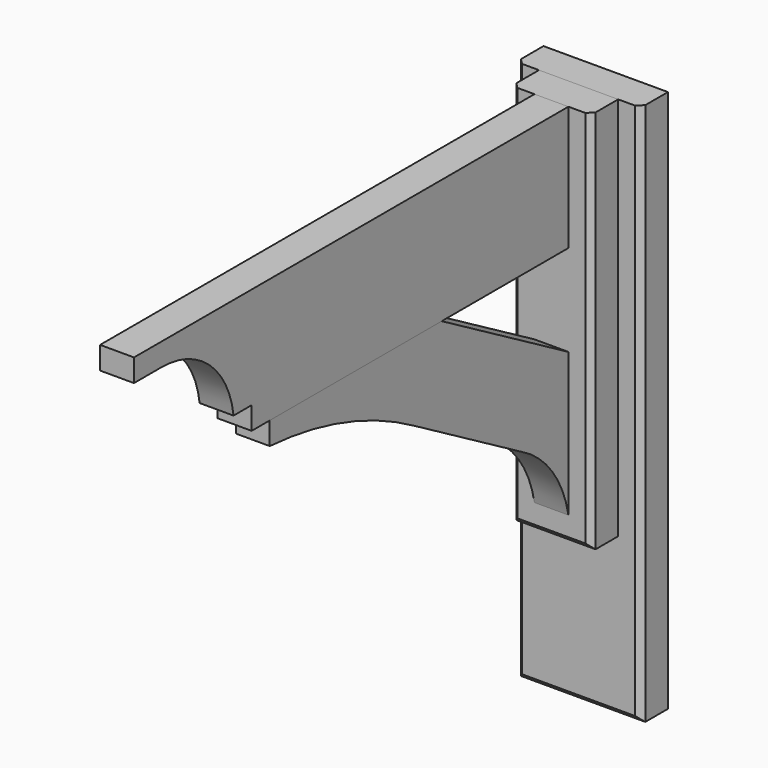
from build123d import *

# Parameters (mm, degrees)
F0_W       = 38.1
F0_H       = 139.7
F1_DEPTH   = 609.6
F2_W       = 88.9
F2_H       = 431.8
F3_DEPTH   = 38.1
F5_DEPTH   = 19.05
F6_W       = 88.9
F6_H       = 431.8
F7_DEPTH   = 38.1
F9_DEPTH   = 38.1
F10_SIZE   = 6.35
F10_2_SIZE = 6.35


with BuildPart() as f1:
    # F0 (on Front) → F1 (new body)
    with BuildSketch(Plane.XZ):
        Rectangle(F0_W, F0_H)
    extrude(amount=F1_DEPTH)

    # F8 (on face) → F9 (cut, through all)
    with BuildSketch(Plane(origin=(-19.05, 0, 0), x_dir=(0, -1, 0), z_dir=(-1, 0, 0))):
        with BuildLine():
            Line((609.6, -69.85), (609.6, 44.45))
            Line((609.6, 44.45), (571.5, 44.45))
            ThreePointArc((571.5, 44.45), (503.79945, 19.314914), (469.9, -44.45))
            Line((469.9, -44.45), (444.5, -44.45))
            Line((444.5, -44.45), (444.5, -69.85))
            Line((444.5, -69.85), (609.6, -69.85))
        make_face()
    extrude(amount=-F9_DEPTH, mode=Mode.SUBTRACT)


with BuildPart() as f3:
    # F2 (on Front) → F3 (new body)
    with BuildSketch(Plane.XZ):
        with Locations((0, -146.05)):
            Rectangle(F2_W, F2_H)
    extrude(amount=-F3_DEPTH)

    # F10
    f10_edges = [f3.edges().sort_by_distance(p)[0] for p in [
        (44.45, 0, -146.05),
        (-44.45, 0, -146.05),
        (0, 0, -361.95),
    ]]
    chamfer(f10_edges, length=F10_SIZE)


with BuildPart() as f5:
    # F4 (on Right) → F5 (new body, symmetric)
    with BuildSketch(Plane.YZ):
        with BuildLine():
            Line((-177.8, -69.85), (-419.1, -69.85))
            Line((-419.1, -69.85), (-419.1, -95.25))
            ThreePointArc((-419.1, -95.25), (-313.314788, -114.714767), (-215.004547, -158.355171))
            Line((-215.004547, -158.355171), (-65.763181, -244.519714))
            ThreePointArc((-65.763181, -244.519714), (-22.620063, -281.609796), (0, -333.814543))
            Line((0, -333.814543), (0, -172.502878))
            Line((0, -172.502878), (-177.8, -69.85))
        make_face()
    extrude(amount=F5_DEPTH, both=True)


with BuildPart() as f7:
    # F6 (on face) → F7 (new body)
    with BuildSketch(Plane(origin=(0, 38.1, 0), x_dir=(-1, 0, 0), z_dir=(0, 1, 0))):
        Polygon((-44.45, 69.85), (-69.85, 69.85), (-69.85, -539.75), (69.85, -539.75), (69.85, 69.85), (44.45, 69.85), (44.45, -361.95), (-44.45, -361.95), align=None)
        with Locations((0, -146.05)):
            Rectangle(F6_W, F6_H)
    extrude(amount=F7_DEPTH)

    # F10#2
    f10_2_edges = [f7.edges().sort_by_distance(p)[0] for p in [
        (69.85, 38.1, -234.95),
        (0, 38.1, -539.75),
        (-69.85, 38.1, -234.95),
    ]]
    chamfer(f10_2_edges, length=F10_2_SIZE)


solid = Compound([f1.part, f3.part, f5.part, f7.part])
